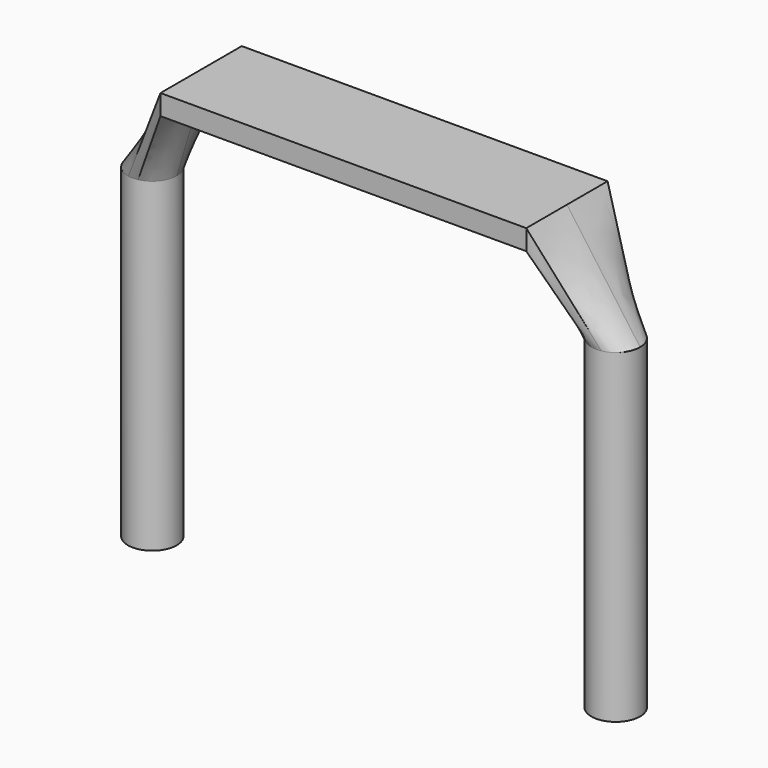
from build123d import *

# Parameters (mm, degrees)
SKETCH_R     = 0.6
PAD_DEPTH    = 8
SKETCH001_W  = 9
SKETCH001_H  = 2.5
PAD001_DEPTH = 0.5
SKETCH002_W  = 2.5
SKETCH002_H  = 0.5
SKETCH003_R  = 0.6
SKETCH004_R  = 0.6
SKETCH005_W  = 2.5
SKETCH005_H  = 0.5


with BuildPart() as pad:
    # Sketch → Pad (new body)
    with BuildSketch(Plane.XY.offset(-3)):
        Circle(SKETCH_R)
        with Locations((11.4, 0)):
            Circle(SKETCH_R)
    extrude(amount=PAD_DEPTH)


with BuildPart() as pad001:
    # Sketch001 → Pad001 (new body)
    with BuildSketch(Plane.XY.offset(7)):
        with Locations((5.7, 0)):
            Rectangle(SKETCH001_W, SKETCH001_H)
    extrude(amount=PAD001_DEPTH)


with BuildPart() as loft_body:
    # Sketch002 → Loft section 0
    with BuildSketch(Plane(origin=(10.2, 0, 7), x_dir=(0, 1, 0), z_dir=(1, 0, 0))):
        with Locations((0, 0.25)):
            Rectangle(SKETCH002_W, SKETCH002_H)
    # Sketch003 → Loft section 1
    with BuildSketch(Plane.XY.offset(5)):
        with Locations((11.4, 0)):
            Circle(SKETCH003_R)
    loft()


with BuildPart() as loft001:
    # Sketch004 → Loft001 section 0
    with BuildSketch(Plane.XY.offset(5)):
        Circle(SKETCH004_R)
    # Sketch005 → Loft001 section 1
    with BuildSketch(Plane(origin=(1.2, 0, 7), x_dir=(0, -1, 0), z_dir=(-1, 0, 0))):
        with Locations((0, 0.25)):
            Rectangle(SKETCH005_W, SKETCH005_H)
    loft()


solid = Compound([pad.part, pad001.part, loft_body.part, loft001.part])
